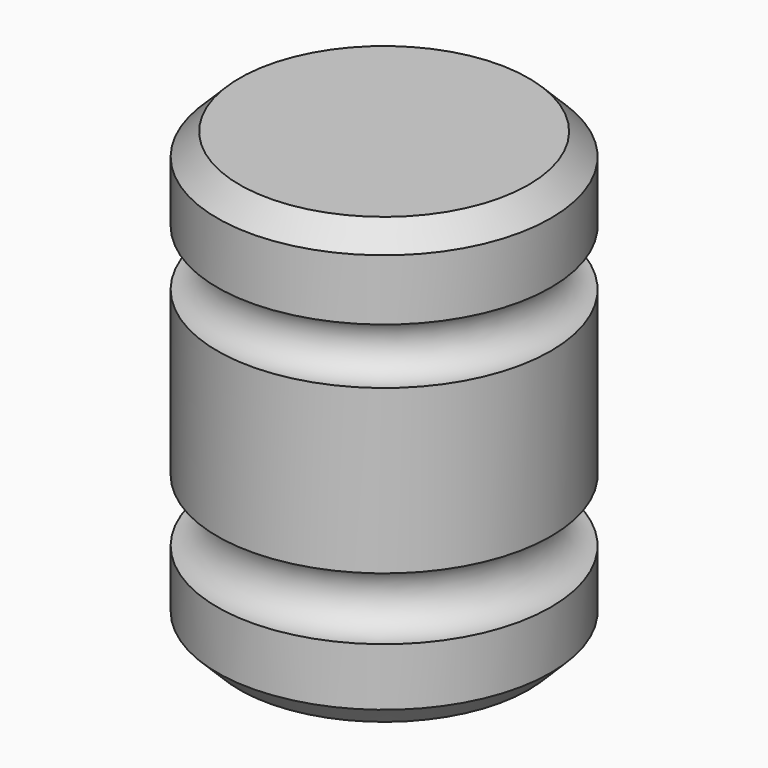
from build123d import *

# Parameters (mm, degrees)
F2_SIZE = 5.08


with BuildPart() as f1:
    # F0 (on Front) → F1 (revolve)
    with BuildSketch(Plane.XZ):
        with BuildLine():
            Line((-38.1, 0), (0, 0))
            Line((0, 0), (0, 18.278179))
            ThreePointArc((0, 18.278179), (-7.121821, 25.4), (0, 32.521821))
            Line((0, 32.521821), (0, 69.818932))
            ThreePointArc((0, 69.818932), (-6.381068, 76.2), (0, 82.581068))
            Line((0, 82.581068), (0, 101.6))
            Line((0, 101.6), (-38.1, 101.6))
            Line((-38.1, 101.6), (-38.1, 0))
        make_face()
    revolve(axis=Axis((-38.1, 0, 50.8), (0, 0, 1)))

    # F2
    f2_edges = [f1.edges().sort_by_distance(p)[0] for p in [
        (-76.2, 0, 101.6),
        (-76.2, 0, 0),
    ]]
    chamfer(f2_edges, length=F2_SIZE)


solid = f1.part
